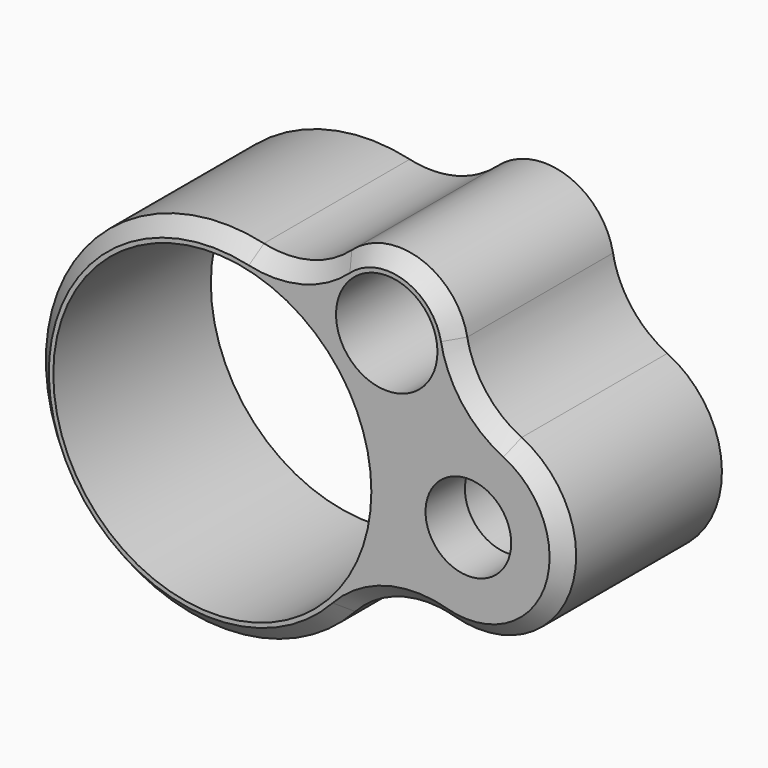
from build123d import *

# Parameters (mm, degrees)
F0_R     = 16.15
F0_R_2   = 5.1
F0_R_3   = 5.15
F1_DEPTH = 15
F0_R_4   = 4.35
F2_DEPTH = 5
F3_R     = 10
F4_SIZE  = 1.5


with BuildPart() as f1:
    # F0 (on Front) → F1 (new body)
    with BuildSketch(Plane.XZ):
        with BuildLine():
            ThreePointArc((17.4720673077, -4.726189162), (35.3828933588, -2.6502475765), (21.2048683234, 8.4893587629))
            ThreePointArc((21.2048683234, 8.4893587629), (21.2879399951, 20.805683816), (10.6130350411, 14.6619741923))
            ThreePointArc((10.6130350411, 14.6619741923), (-17.0636591342, -6.0366826114), (17.4720673077, -4.726189162))
        make_face()
        Circle(F0_R, mode=Mode.SUBTRACT)
        with Locations((26, 0)):
            Circle(F0_R_2, mode=Mode.SUBTRACT)
        with Locations((17.7130288462, 14.6713533491)):
            Circle(F0_R_3, mode=Mode.SUBTRACT)
        with BuildLine():
            ThreePointArc((17.4720673077, -4.726189162), (35.3828933588, -2.6502475765), (21.2048683234, 8.4893587629))
            ThreePointArc((21.2048683234, 8.4893587629), (21.2879399951, 20.805683816), (10.6130350411, 14.6619741923))
            ThreePointArc((10.6130350411, 14.6619741923), (-17.0636591342, -6.0366826114), (17.4720673077, -4.726189162))
        make_face()
        Circle(F0_R, mode=Mode.SUBTRACT)
        with Locations((26, 0)):
            Circle(F0_R_2, mode=Mode.SUBTRACT)
        with Locations((17.7130288462, 14.6713533491)):
            Circle(F0_R_3, mode=Mode.SUBTRACT)
    extrude(amount=-F1_DEPTH)

    # F0 (on Front) → F2 (join)
    with BuildSketch(Plane.XZ):
        with BuildLine():
            ThreePointArc((17.4720673077, -4.726189162), (35.3828933588, -2.6502475765), (21.2048683234, 8.4893587629))
            ThreePointArc((21.2048683234, 8.4893587629), (21.2879399951, 20.805683816), (10.6130350411, 14.6619741923))
            ThreePointArc((10.6130350411, 14.6619741923), (-17.0636591342, -6.0366826114), (17.4720673077, -4.726189162))
        make_face()
        Circle(F0_R, mode=Mode.SUBTRACT)
        with Locations((26, 0)):
            Circle(F0_R_2, mode=Mode.SUBTRACT)
        with Locations((17.7130288462, 14.6713533491)):
            Circle(F0_R_3, mode=Mode.SUBTRACT)
        with Locations((26, 0)):
            Circle(F0_R_2)
        with Locations((26, 0)):
            Circle(F0_R_4, mode=Mode.SUBTRACT)
    extrude(amount=F2_DEPTH)

    # F3
    f3_edges = [f1.edges().sort_by_distance(p)[0] for p in [
        (10.613035, 5, 14.661974),
        (21.204868, 5, 8.489359),
        (17.472067, 5, -4.726189),
    ]]
    fillet(f3_edges, radius=F3_R)

    # F4
    f4_edges = [f1.edges().sort_by_distance(p)[0] for p in [
        (-17.286785, -5, -5.364427),
    ]]
    chamfer(f4_edges, length=F4_SIZE)


solid = f1.part
